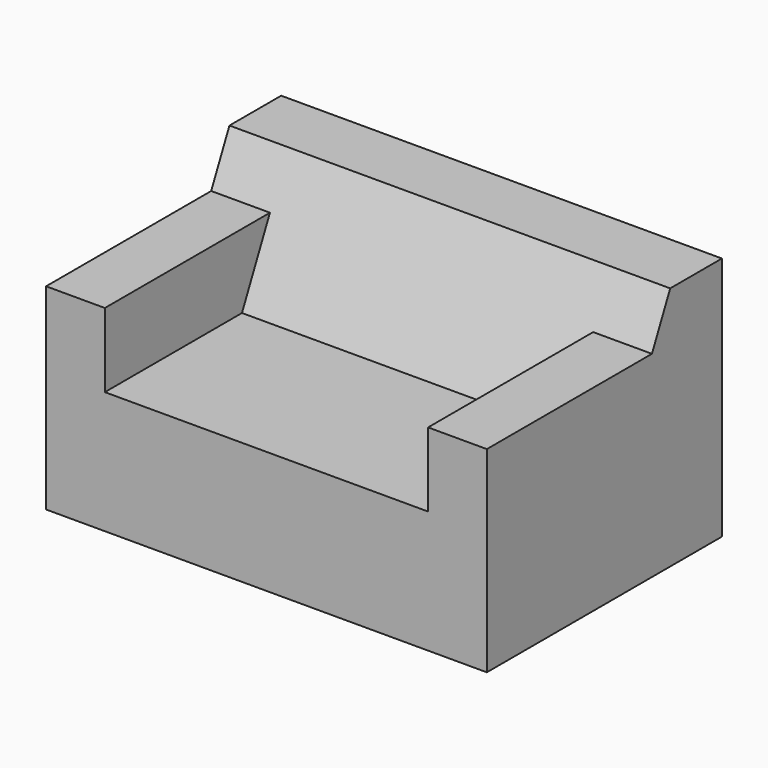
from build123d import *

# Parameters (mm, degrees)
F1_DEPTH = 57.15
F2_W     = 76.2
F2_H     = 50.960924
F3_DEPTH = 15.24


with BuildPart() as f1:
    # F0 (on Right) → F1 (new body, symmetric)
    with BuildSketch(Plane.YZ):
        Polygon((-76.2, 0), (0, 0), (0, 63.5), (-16.764, 63.5), (-31.75, 31.75), (-76.2, 31.75), align=None)
    extrude(amount=F1_DEPTH, both=True)

    # F2 (on face) → F3 (join)
    with BuildSketch(Plane.YZ.offset(57.15)):
        with Locations((-38.1, 25.480462)):
            Rectangle(F2_W, F2_H)
    extrude(amount=-F3_DEPTH)

    # F4: F1 across plane


with BuildPart() as f1_1:
    add(f1.part)
    add(f1.part.mirror(Plane.YZ))


solid = f1_1.part
